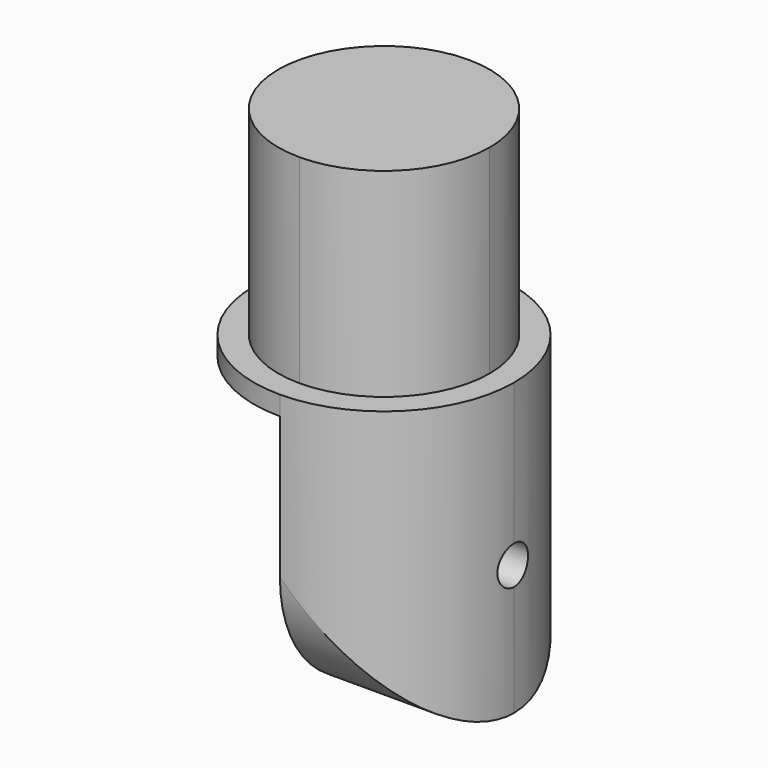
from build123d import *

# Parameters (mm, degrees)
F1_DEPTH = 33.02
F2_DEPTH = 48.26
F3_DEPTH = 3.175
F5_DEPTH = 21.591


with BuildPart() as f1:
    # F0 (on Top) → F1 (new body)
    with BuildSketch(Plane.XY):
        with BuildLine():
            Line((0, -17.526), (0, 17.526))
            ThreePointArc((0, 17.526), (-17.526, 0), (0, -17.526))
        make_face()
        with BuildLine():
            ThreePointArc((0, -17.526), (12.3927534471, -12.3927534471), (17.526, 0))
            ThreePointArc((17.526, 0), (12.3927534471, 12.3927534471), (0, 17.526))
            Line((0, 17.526), (0, -17.526))
        make_face()
    extrude(amount=F1_DEPTH)

    # F0 (on Top) → F2 (join)
    with BuildSketch(Plane.XY):
        with BuildLine():
            ThreePointArc((0, -17.526), (12.3927534471, -12.3927534471), (17.526, 0))
            ThreePointArc((17.526, 0), (12.3927534471, 12.3927534471), (0, 17.526))
            Line((0, 17.526), (0, -17.526))
        make_face()
        with BuildLine():
            ThreePointArc((0, 17.526), (12.3927534471, 12.3927534471), (17.526, 0))
            ThreePointArc((17.526, 0), (12.3927534471, -12.3927534471), (0, -17.526))
            Line((0, -17.526), (0, -21.59))
            ThreePointArc((0, -21.59), (15.2664354058, -15.2664354058), (21.59, 0))
            ThreePointArc((21.59, 0), (15.2664354058, 15.2664354058), (0, 21.59))
            Line((0, 21.59), (0, 17.526))
        make_face()
    extrude(amount=-F2_DEPTH)

    # F0 (on Top) → F3 (join)
    with BuildSketch(Plane.XY):
        with BuildLine():
            ThreePointArc((0, -17.526), (-17.526, 0), (0, 17.526))
            Line((0, 17.526), (0, 21.59))
            ThreePointArc((0, 21.59), (-21.59, 0), (0, -21.59))
            Line((0, -21.59), (0, -17.526))
        make_face()
        with BuildLine():
            Line((0, -17.526), (0, 17.526))
            ThreePointArc((0, 17.526), (-17.526, 0), (0, -17.526))
        make_face()
    extrude(amount=-F3_DEPTH)

    # F4 (on face) → F5 (cut, through all)
    with BuildSketch(Plane(origin=(0, 0, 0), x_dir=(0, -1, 0), z_dir=(-1, 0, 0))):
        with BuildLine():
            ThreePointArc((-3.175, -26.67), (0, -29.845), (3.175, -26.67))
            Line((3.175, -26.67), (-3.175, -26.67))
        make_face()
        with BuildLine():
            Line((-3.175, -26.67), (3.175, -26.67))
            ThreePointArc((3.175, -26.67), (0, -23.495), (-3.175, -26.67))
        make_face()
        with BuildLine():
            ThreePointArc((0, -48.26), (-15.2664354058, -41.9364354058), (-21.59, -26.67))
            Line((-21.59, -26.67), (-21.59, -48.26))
            Line((-21.59, -48.26), (0, -48.26))
        make_face()
        with BuildLine():
            Line((21.59, -48.26), (21.59, -26.67))
            ThreePointArc((21.59, -26.67), (15.2664354058, -41.9364354058), (0, -48.26))
            Line((0, -48.26), (21.59, -48.26))
        make_face()
    extrude(amount=-F5_DEPTH, mode=Mode.SUBTRACT)


solid = f1.part
